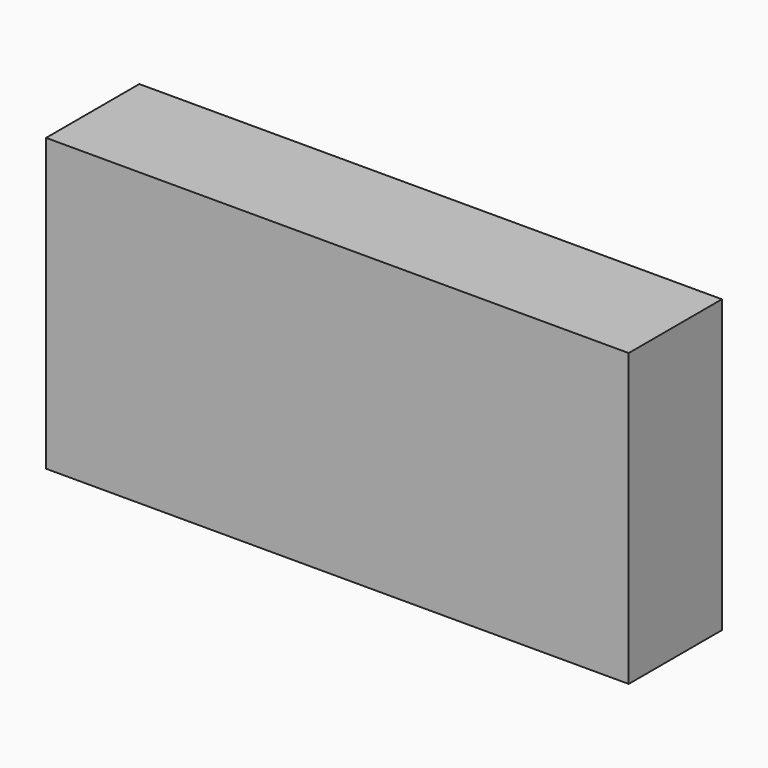
from build123d import *

# Parameters (mm, degrees)
F0_W     = 50
F0_H     = 25
F1_DEPTH = 10
F2_R     = 5
F3_DEPTH = 5


with BuildPart() as f1:
    # F0 (on Front) → F1 (new body)
    with BuildSketch(Plane.XZ):
        Rectangle(F0_W, F0_H)
    extrude(amount=F1_DEPTH)

    # F2 (on face) → F3 (join)
    with BuildSketch(Plane(origin=(0, 0, 0), x_dir=(-1, 0, 0), z_dir=(0, 1, 0))):
        with Locations((-12.5, 0)):
            Circle(F2_R)
        with Locations((12.5, 0)):
            Circle(F2_R)
    extrude(amount=F3_DEPTH)


solid = f1.part
